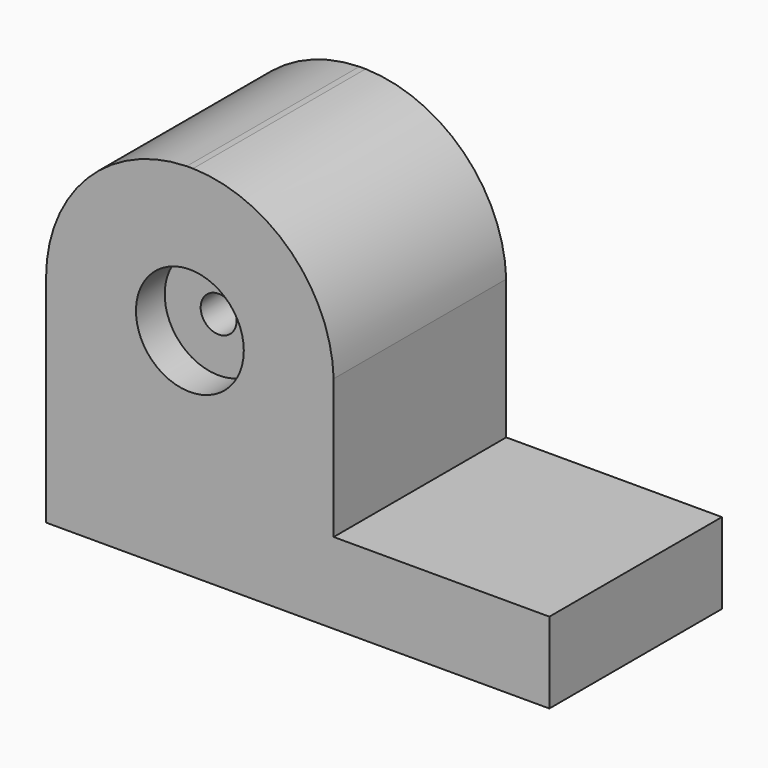
from build123d import *

# Parameters (mm, degrees)
F1_DEPTH = 76.2
F3_DEPTH = 76.201
F4_R     = 19.05
F4_R_2   = 6.35
F5_DEPTH = 12.7
F6_DEPTH = 76.201


with BuildPart() as f1:
    # F0 (on Front) → F1 (new body)
    with BuildSketch(Plane.XZ):
        Polygon((0, 127), (0, 0), (177.8, 0), (177.8, 28.575), (101.6, 28.575), (101.6, 127), align=None)
    extrude(amount=F1_DEPTH)

    # F2 (on face) → F3 (cut, through all)
    with BuildSketch(Plane.XZ.offset(76.2)):
        with BuildLine():
            Line((0, 127), (0, 76.2))
            ThreePointArc((0, 76.2), (14.4878771466, 111.7306783097), (49.6898018168, 127))
            Line((49.6898018168, 127), (0, 127))
        make_face()
        with BuildLine():
            Line((101.6, 127), (51.9350028707, 127))
            ThreePointArc((51.9350028707, 127), (86.5773951149, 112.2938432981), (101.6, 77.7875))
            Line((101.6, 77.7875), (101.6, 127))
        make_face()
    extrude(amount=-F3_DEPTH, mode=Mode.SUBTRACT)

    # F4 (on face) → F5 (cut)
    with BuildSketch(Plane.XZ.offset(76.2)):
        with Locations((50.8, 76.2)):
            Circle(F4_R)
        with Locations((50.8, 76.2)):
            Circle(F4_R_2, mode=Mode.SUBTRACT)
    extrude(amount=-F5_DEPTH, mode=Mode.SUBTRACT)

    # F6 (cut, through all): a face of the model
    f6_faces = [f1.faces().sort_by_distance(p)[0] for p in [
        (50.8, -76.2, 76.2),
    ]]
    extrude(f6_faces, amount=-F6_DEPTH, mode=Mode.SUBTRACT)


solid = f1.part
